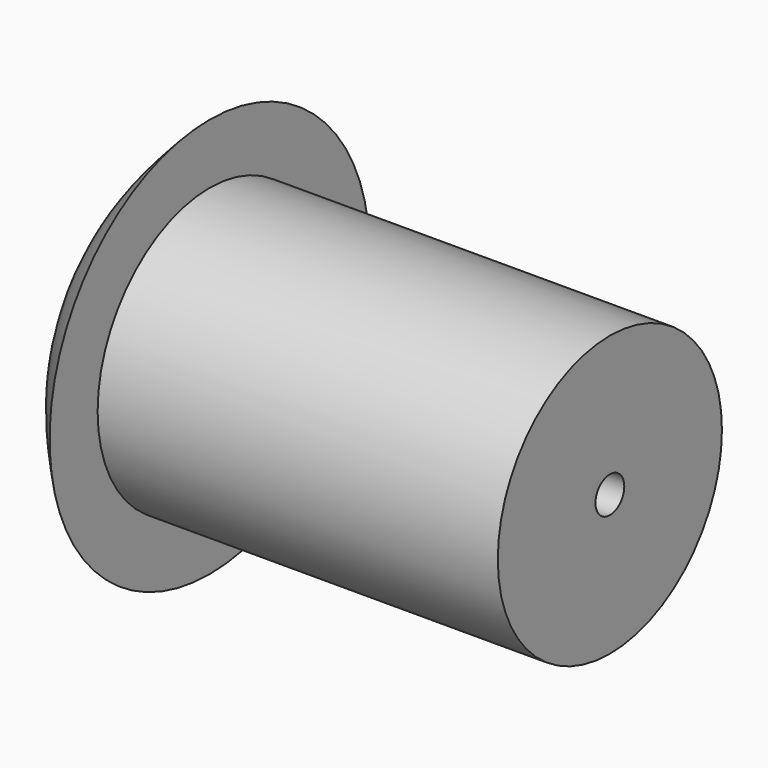
from build123d import *

# Parameters (mm, degrees)
F2_R     = 0.45
F3_DEPTH = 25


with BuildPart() as f1:
    # F0 (on Front) → F1 (revolve)
    with BuildSketch(Plane.XZ):
        with BuildLine():
            Line((10, 3.5), (0, 3.5))
            Line((0, 3.5), (0, 5))
            add(Edge.make_bspline(
                [(-2.3181129471, 0), (-2.2247391491, 0.4907754741), (-2.129532292, 1.2592767365), (-1.4652901018, 3.4696062763), (-0.5173679192, 4.4521254152), (0, 5)],
                knots=[0, 0, 0, 0, 0.2804472113, 0.6403030457, 1, 1, 1, 1], degree=3))
            Line((-2.3181129471, 0), (10, 0))
            Line((10, 0), (10, 3.5))
        make_face()
    revolve(axis=Axis((2.3972453666, 0, 0), (1, 0, 0)))

    # F2 (on face) → F3 (cut)
    with BuildSketch(Plane.YZ.offset(10)):
        Circle(F2_R)
    extrude(amount=-F3_DEPTH, mode=Mode.SUBTRACT)


solid = f1.part
